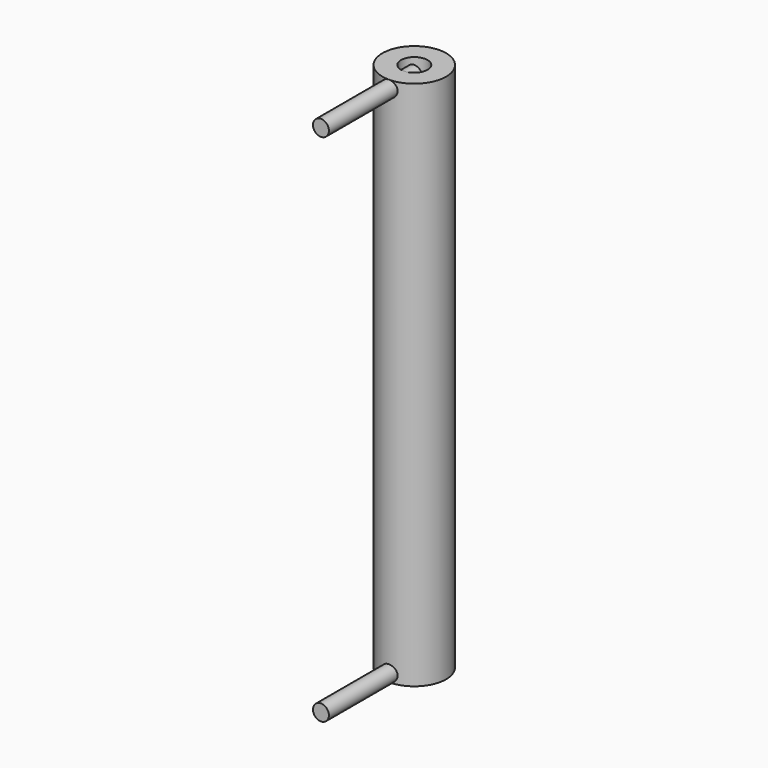
from build123d import *

# Parameters (mm, degrees)
F0_R     = 60
F0_R_2   = 25
F1_DEPTH = 1000
F2_R     = 15
F3_DEPTH = 220
F4_R     = 15
F5_DEPTH = 220


with BuildPart() as f1:
    # F0 (on Top) → F1 (new body)
    with BuildSketch(Plane.XY):
        Circle(F0_R)
        Circle(F0_R_2, mode=Mode.SUBTRACT)
    extrude(amount=F1_DEPTH)

    # F2 (on Front) → F3 (join)
    with BuildSketch(Plane.XZ):
        with Locations((0, 15)):
            Circle(F2_R)
    extrude(amount=F3_DEPTH)

    # F4 (on Front) → F5 (join)
    with BuildSketch(Plane.XZ):
        with Locations((0, 985)):
            Circle(F4_R)
    extrude(amount=F5_DEPTH)


solid = f1.part
